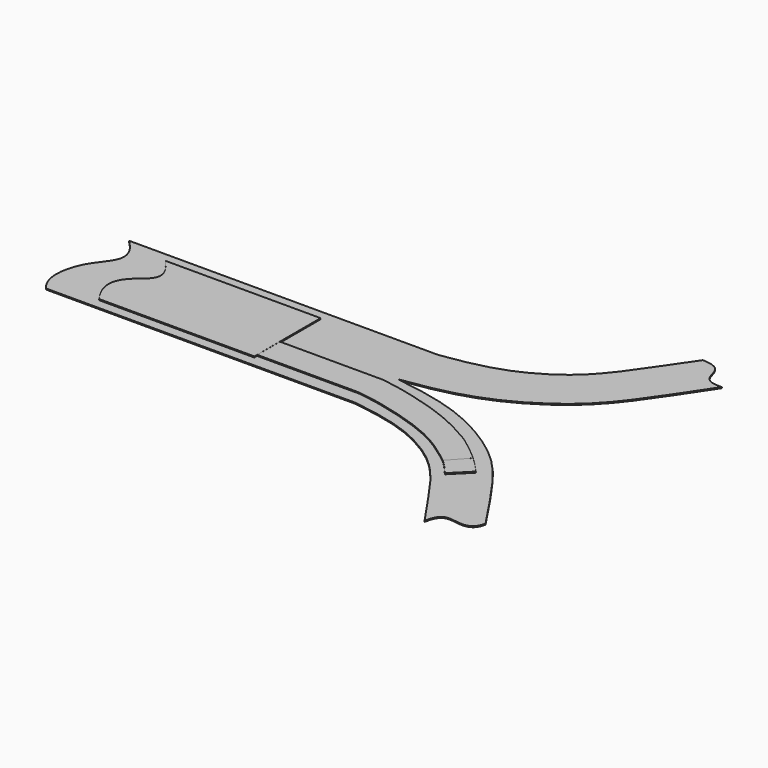
from build123d import *

# Parameters (mm, degrees)
F1_DEPTH = 0.254
F3_DEPTH = 0.254
F5_DEPTH = 0.254
F7_DEPTH = 0.254


with BuildPart() as f1:
    # F0 (on Top) → F1 (new body)
    with BuildSketch(Plane.XY):
        with BuildLine():
            Line((75.8778452873, 0), (0, 0))
            add(Edge.make_bspline(
                [(0, 0), (6.2785497867, -6.0536758974), (-1.6684219392, -10.5268778435), (-3.4390024375, -21.9161491841), (0, -25.4)],
                knots=[0, 0, 0, 0, 0.4873086052, 1, 1, 1, 1], degree=3))
            Line((0, -25.4), (75.8778452873, -25.4))
            add(Edge.make_bspline(
                [(75.8778452873, -25.4), (85.8343930074, -26.7724701236), (93.8388538337, -29.7752200664), (102.6496075388, -35.7570827972), (109.2395856526, -44.0628139366), (112.4197915196, -49.1244153395), (116.80483073, -55.3887480214)],
                knots=[0, 0, 0, 0, 0.307318465, 0.5209586707, 0.7333340753, 1, 1, 1, 1], degree=3))
            add(Edge.make_bspline(
                [(116.80483073, -55.3887480214), (117.5869007423, -50.438671112), (122.5249790984, -52.7955302783), (126.2520253658, -51.535140723), (126.6189664602, -48.9530842751)],
                knots=[0, 0, 0, 0, 0.5346959438, 1, 1, 1, 1], degree=3))
            add(Edge.make_bspline(
                [(76.0866627097, -12.6999998465), (85.3244735821, -13.9733949817), (95.3942806427, -16.717494619), (107.3298202091, -24.0799513136), (115.4308502992, -31.8079037687), (122.1346774296, -42.2266523959), (126.6189664602, -48.9530842751)],
                knots=[0, 0, 0, 0, 0.2851339577, 0.5079865525, 0.7137762099, 1, 1, 1, 1], degree=3))
            add(Edge.make_bspline(
                [(76.0866627097, -12.6999998465), (85.3244735821, -11.4266047114), (95.3942806427, -8.6825050741), (107.3298202091, -1.3200483794), (115.4308502992, 6.4079040757), (122.1346774296, 16.8266527029), (126.6189664602, 23.5530845821)],
                knots=[0, 0, 0, 0, 0.2851339577, 0.5079865525, 0.7137762099, 1, 1, 1, 1], degree=3))
            add(Edge.make_bspline(
                [(116.80483073, 29.9887480214), (121.1760565639, 29.8197679222), (121.4907700555, 26.344497845), (123.1459379196, 23.2987627387), (126.6189664602, 23.5530845821)],
                knots=[0, 0, 0, 0, 0.5147972586, 1, 1, 1, 1], degree=3))
            add(Edge.make_bspline(
                [(75.8778452873, 0), (85.8343930074, 1.3724701236), (93.8388538337, 4.3752200664), (102.6496075388, 10.3570827972), (109.2395856526, 18.6628139366), (112.4197915196, 23.7244153395), (116.80483073, 29.9887480214)],
                knots=[0, 0, 0, 0, 0.307318465, 0.5209586707, 0.7333340753, 1, 1, 1, 1], degree=3))
        make_face()
    extrude(amount=F1_DEPTH)


with BuildPart() as f3:
    # F2 (on face) → F3 (new body)
    with BuildSketch(Plane.XY.offset(0.254)):
        with BuildLine():
            Line((49.0219895676, -2.5400017726), (10.9219895676, -2.5400017726))
            add(Edge.make_bspline(
                [(10.9219895676, -2.5400017726), (16.617264916, -8.5037945801), (9.7520207569, -11.3989025011), (6.9344084159, -17.441816538), (10.9219895676, -22.8600017726)],
                knots=[0, 0, 0, 0, 0.4837861097, 1, 1, 1, 1], degree=3))
            Line((10.9219895676, -22.8600017726), (49.0219895676, -22.8600017726))
            Line((49.0219895676, -22.8600017726), (49.0219895676, -2.5400017726))
        make_face()
    extrude(amount=F3_DEPTH)


with BuildPart() as f5:
    # F4 (on face) → F5 (new body)
    with BuildSketch(Plane.XY.offset(0.254)):
        with BuildLine():
            Line((49.0380935371, -15.0389395746), (49.0380935371, -22.0119617879))
            Line((49.0380935371, -22.0119617879), (74.029289186, -22.0119617879))
            add(Edge.make_bspline(
                [(74.029289186, -22.0119617879), (74.7474876213, -22.1219957865), (76.2662569253, -22.3546839283), (78.9661194201, -22.7678063221), (83.8487047925, -23.956293258), (88.6244277012, -25.2904840545), (94.8989330072, -27.6712350069), (97.6571553784, -29.3786304321), (98.9180132747, -30.1591269672)],
                knots=[0, 0, 0, 0, 0.1196970144, 0.2531224552, 0.4323341554, 0.6165627393, 0.8247204784, 1, 1, 1, 1], degree=3))
            add(Edge.make_bspline(
                [(98.9180132747, -30.1591269672), (99.8871751276, -30.8177490844), (101.7126445017, -32.1523381789), (103.4620310391, -33.3792983043), (104.1653677821, -34.0012423694)],
                knots=[0, 0, 0, 0, 0.5173630348, 1, 1, 1, 1], degree=3))
            add(Edge.make_bspline(
                [(104.1653677821, -34.0012423694), (104.8460840231, -33.2689778496), (106.1988742703, -31.8137454912), (107.4805273756, -30.3451876683), (108.1172600389, -29.6155996621)],
                knots=[0, 0, 0, 0, 0.5031942257, 1, 1, 1, 1], degree=3))
            add(Edge.make_bspline(
                [(101.7562970519, -24.542350322), (102.978831553, -25.4017321627), (104.1665471475, -26.360657397), (106.1895042658, -27.8806202114), (108.1172600389, -29.6155996621)],
                knots=[0, 0, 0, 0, 0.433443973, 1, 1, 1, 1], degree=3))
            add(Edge.make_bspline(
                [(74.029289186, -15.0389395746), (75.1255899668, -15.0979347527), (76.0699741171, -15.4071638466), (79.0500609961, -15.7879393483), (83.7812002208, -16.9690851075), (88.8094479954, -18.3861101897), (94.6739709102, -20.6044792006), (100.2071492671, -23.583396516), (101.7562970519, -24.542350322)],
                knots=[0, 0, 0, 0, 0.1138803905, 0.2408220805, 0.4113250666, 0.5866011433, 0.7846435483, 1, 1, 1, 1], degree=3))
            Line((74.029289186, -15.0389395746), (49.0380935371, -15.0389395746))
        make_face()
    extrude(amount=F5_DEPTH)


with BuildPart() as f7:
    # F6 (on face) → F7 (new body)
    with BuildSketch(Plane.XY.offset(0.254)):
        with BuildLine():
            add(Edge.make_bspline(
                [(104.1710475418, -33.9917691448), (105.4866958989, -32.5371997454), (106.7982937896, -31.0944876678), (108.1139421467, -29.6399182684)],
                knots=[0, 0, 0, 0, 5.8723950749, 5.8723950749, 5.8723950749, 5.8723950749], degree=3))
            add(Edge.make_bspline(
                [(104.1710475418, -33.9917691448), (104.4099439242, -34.1896572138), (104.8242851743, -34.6439646752), (105.5591015406, -35.3090622934), (106.2264910501, -36.1122166112), (106.8996351235, -36.842264614), (107.3925606354, -37.3664417525), (107.8056286666, -37.8932377124)],
                knots=[0, 0, 0, 0, 0.1864566355, 0.380122534, 0.5785809395, 0.7655571608, 1, 1, 1, 1], degree=3))
            add(Edge.make_bspline(
                [(107.8056286666, -37.8932377124), (109.319843612, -36.4589086186), (110.1742377292, -35.4378376941), (111.6884526747, -34.0035086003)],
                knots=[0, 0, 0, 0, 5.4960271873, 5.4960271873, 5.4960271873, 5.4960271873], degree=3))
            add(Edge.make_bspline(
                [(112.0454743505, -33.6504243314), (111.9264671252, -33.7681190877), (111.8074598999, -33.885813844), (111.6884526747, -34.0035086003)],
                knots=[0, 0, 0, 0, 0.5021284476, 0.5021284476, 0.5021284476, 0.5021284476], degree=3))
            add(Edge.make_bspline(
                [(108.1139421467, -29.6399182684), (108.453197494, -29.9530477635), (109.1234070026, -30.571644837), (110.0460648425, -31.5023143998), (111.0229990464, -32.5257970483), (111.7001125346, -33.2705586084), (112.0454743505, -33.6504243314)],
                knots=[0, 0, 0, 0, 0.2472781927, 0.4885057739, 0.7391123087, 1, 1, 1, 1], degree=3))
        make_face()
    extrude(amount=F7_DEPTH)


solid = Compound([f1.part, f3.part, f5.part, f7.part])
